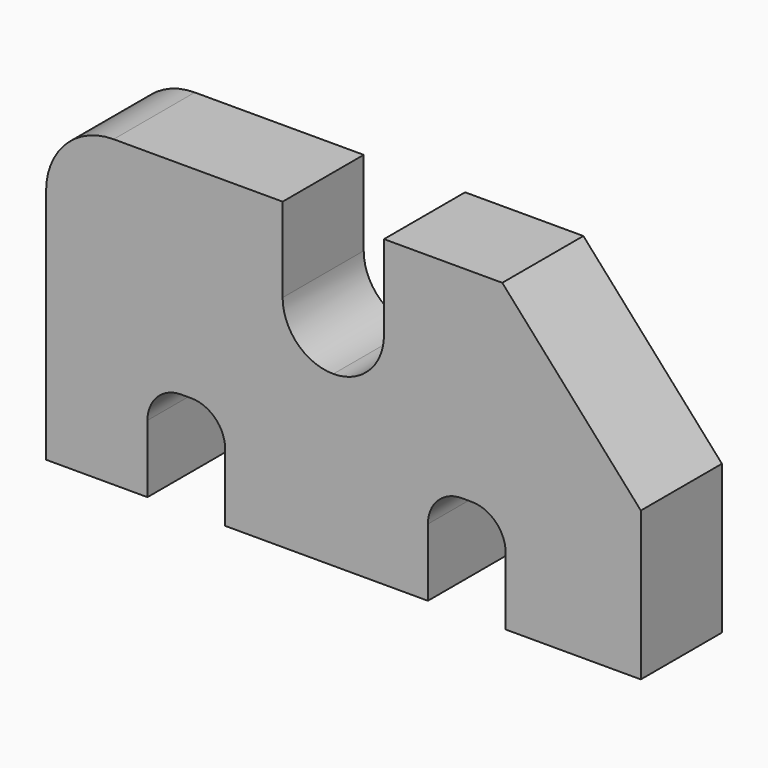
from build123d import *

# Parameters (mm, degrees)
F1_DEPTH = 30


with BuildPart() as f1:
    # F0 (on Front) → F1 (new body)
    with BuildSketch(Plane.XZ):
        with BuildLine():
            Line((-103.501727, 24.947246), (-103.501727, -45.052754))
            Line((-103.501727, -45.052754), (-73.501727, -45.052754))
            Line((-73.501727, -45.052754), (-73.501727, -25.052754))
            ThreePointArc((-73.501727, -25.052754), (-70.572794, -17.981686), (-63.501727, -15.052754))
            Line((-63.501727, -15.052754), (-60.501727, -15.052754))
            ThreePointArc((-60.501727, -15.052754), (-53.430659, -17.981686), (-50.501727, -25.052754))
            Line((-50.501727, -25.052754), (-50.501727, -45.052754))
            Line((-50.501727, -45.052754), (9.498273, -45.052754))
            Line((9.498273, -45.052754), (9.498273, -25.052754))
            ThreePointArc((9.498273, -25.052754), (12.427206, -17.981686), (19.498273, -15.052754))
            Line((19.498273, -15.052754), (22.498273, -15.052754))
            ThreePointArc((22.498273, -15.052754), (29.569341, -17.981686), (32.498273, -25.052754))
            Line((32.498273, -25.052754), (32.498273, -45.052754))
            Line((32.498273, -45.052754), (72.498273, -45.052754))
            Line((72.498273, -45.052754), (72.498273, -1.052754))
            Line((72.498273, -1.052754), (31.498273, 44.947246))
            Line((31.498273, 44.947246), (-3.501727, 44.947246))
            Line((-3.501727, 44.947246), (-3.501727, 19.947246))
            ThreePointArc((-3.501727, 19.947246), (-7.895125, 9.340645), (-18.501727, 4.947246))
            ThreePointArc((-18.501727, 4.947246), (-29.108328, 9.340645), (-33.501727, 19.947246))
            Line((-33.501727, 19.947246), (-33.501727, 44.947246))
            Line((-33.501727, 44.947246), (-83.501727, 44.947246))
            ThreePointArc((-83.501727, 44.947246), (-97.643862, 39.089382), (-103.501727, 24.947246))
        make_face()
    extrude(amount=F1_DEPTH)


solid = f1.part
